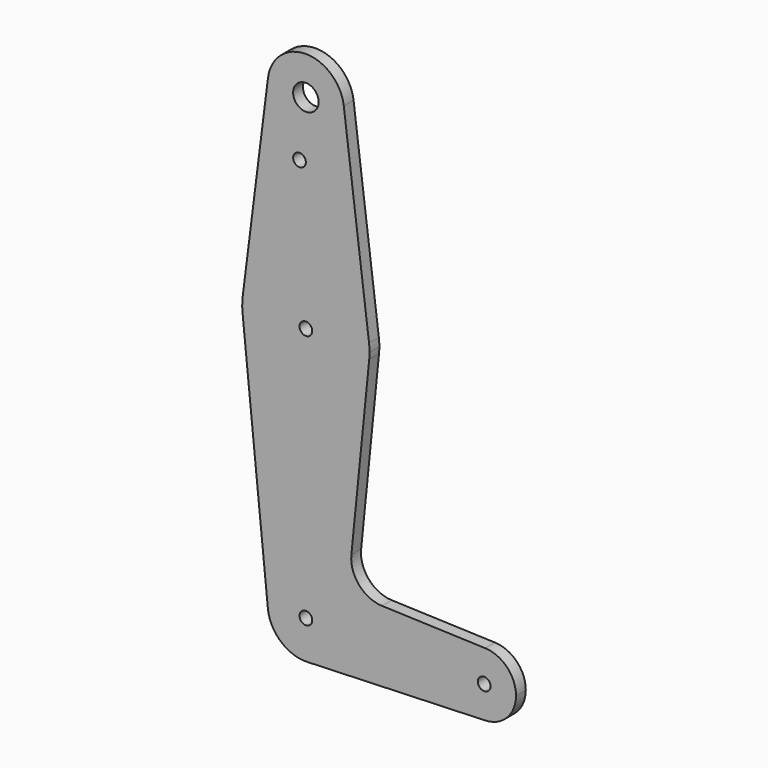
from build123d import *

# Parameters (mm, degrees)
F0_R     = 1.5875
F0_R_2   = 3.175
F1_DEPTH = 3.048


with BuildPart() as f1:
    # F0 (on Front) → F1 (new body)
    with BuildSketch(Plane.XZ):
        with BuildLine():
            ThreePointArc((0.3401785714, -9.5189234444), (6.8544082857, -6.6138273378), (9.525, 0))
            ThreePointArc((9.525, 0), (-0.4768479324, 9.5130563464), (-9.4772553384, -0.9525))
            ThreePointArc((-9.4772553384, -0.9525), (-6.2623833816, -7.1769199091), (0.3401785714, -9.5189234444))
        make_face()
        Circle(F0_R, mode=Mode.SUBTRACT)
        with BuildLine():
            ThreePointArc((-9.4772553384, -0.9525), (-0.4768479324, 9.5130563464), (9.525, 0))
            Line((9.525, 0), (36.5125, 0))
            ThreePointArc((36.5125, 0), (38.9384772185, 5.7120069047), (44.7334821429, 7.9324362036))
            Line((44.7334821429, 7.9324362036), (18.9676000005, 8.8532337108))
            ThreePointArc((18.9676000005, 8.8532337108), (13.2611998974, 11.5713591498), (11.3411865923, 17.5933818124))
            Line((11.3411865923, 17.5933818124), (15.7954255641, 61.9125))
            ThreePointArc((15.7954255641, 61.9125), (0, 47.625), (-15.7954255641, 61.9125))
            Line((-15.7954255641, 61.9125), (-9.4772553384, -0.9525))
        make_face()
        with BuildLine():
            Line((36.5125, 0), (9.525, 0))
            ThreePointArc((9.525, 0), (6.8544082857, -6.6138273378), (0.3401785714, -9.5189234444))
            Line((0.3401785714, -9.5189234444), (44.7334821429, -7.9324362036))
            ThreePointArc((44.7334821429, -7.9324362036), (38.9384772185, -5.7120069047), (36.5125, 0))
        make_face()
        with BuildLine():
            ThreePointArc((44.7334821429, 7.9324362036), (38.9384772185, 5.7120069047), (36.5125, 0))
            ThreePointArc((36.5125, 0), (38.9384772185, -5.7120069047), (44.7334821429, -7.9324362036))
            ThreePointArc((44.7334821429, -7.9324362036), (50.1620069047, -5.5115227815), (52.3875, 0))
            ThreePointArc((52.3875, 0), (50.1620069047, 5.5115227815), (44.7334821429, 7.9324362036))
        make_face()
        with BuildLine():
            ThreePointArc((46.0375, 0), (44.45, -1.5875), (42.8625, 0))
            ThreePointArc((42.8625, 0), (44.45, 1.5875), (46.0375, 0))
        make_face(mode=Mode.SUBTRACT)
        with BuildLine():
            ThreePointArc((-15.7504882737, 65.484375), (-15.8737438155, 63.6997054867), (-15.7954255641, 61.9125))
            ThreePointArc((-15.7954255641, 61.9125), (0, 47.625), (15.7954255641, 61.9125))
            ThreePointArc((15.7954255641, 61.9125), (15.8550939106, 62.7052534459), (15.875, 63.5))
            ThreePointArc((15.875, 63.5), (15.8438415292, 64.4941381181), (15.7504884286, 65.4843737702))
            ThreePointArc((15.7504884286, 65.4843737702), (6.198e-07, 79.375), (-15.7504882737, 65.484375))
        make_face()
        with Locations((0, 63.5)):
            Circle(F0_R, mode=Mode.SUBTRACT)
        with BuildLine():
            Line((-9.4502929642, 115.490625), (-15.7504882737, 65.484375))
            ThreePointArc((-15.7504882737, 65.484375), (6.198e-07, 79.375), (15.7504884286, 65.4843737702))
            Line((15.7504884286, 65.4843737702), (9.4502929642, 115.490625))
            ThreePointArc((9.4502929642, 115.490625), (9.5063048942, 114.896483242), (9.525, 114.3))
            ThreePointArc((9.525, 114.3), (-0.596483242, 104.7936951058), (-9.4502929642, 115.490625))
        make_face()
        with Locations((-1.5875, 100.0252)):
            Circle(F0_R, mode=Mode.SUBTRACT)
        with BuildLine():
            ThreePointArc((9.4502929642, 115.490625), (0, 123.825), (-9.4502929642, 115.490625))
            ThreePointArc((-9.4502929642, 115.490625), (-0.596483242, 104.7936951058), (9.525, 114.3))
            ThreePointArc((9.525, 114.3), (9.5063048942, 114.896483242), (9.4502929642, 115.490625))
        make_face()
        with Locations((0, 114.3)):
            Circle(F0_R_2, mode=Mode.SUBTRACT)
    extrude(amount=F1_DEPTH)


solid = f1.part
